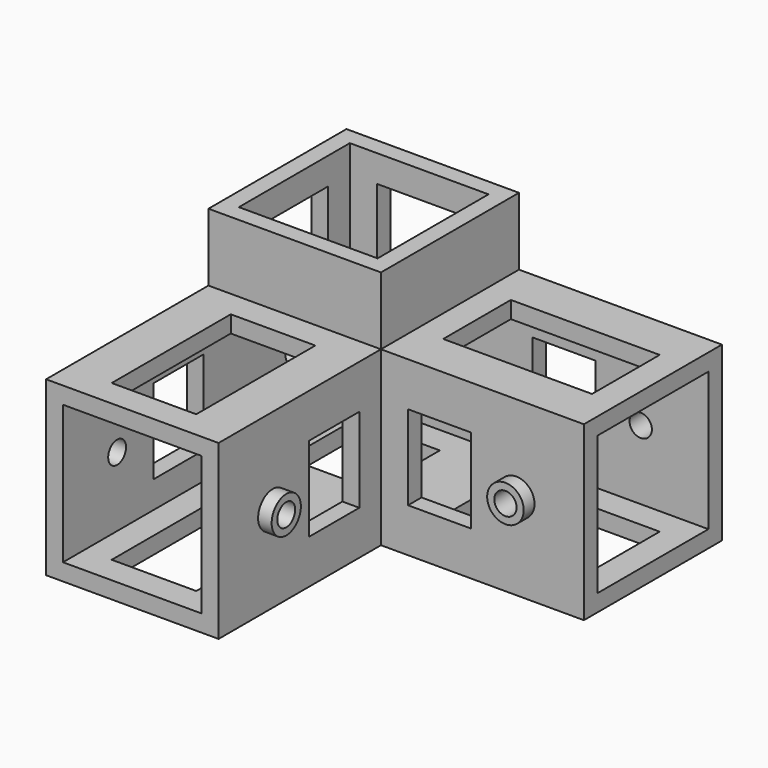
from build123d import *

# Parameters (mm, degrees)
F0_W      = 25.5
F0_H      = 25.5
F0_W_2    = 20.5
F0_H_2    = 20.5
F1_DEPTH  = 35.5
F2_W      = 25.5
F2_H      = 25.5
F3_DEPTH  = 30
F4_DEPTH  = 10
F5_W      = 20.5
F5_H      = 20.5
F6_DEPTH  = 32.5
F7_W      = 20.5
F7_H      = 20.5
F8_DEPTH  = 2.5
F9_W      = 25.5
F9_H      = 25.5
F10_DEPTH = 30
F11_W     = 20.5
F11_H     = 20.5
F12_DEPTH = 32.5
F13_R     = 2.7
F14_DEPTH = 2
F15_R     = 2.7
F16_DEPTH = 2
F17_R     = 1.65
F18_DEPTH = 30
F19_R     = 2.7
F20_DEPTH = 2
F21_R     = 2.7
F22_DEPTH = 2
F23_R     = 1.65
F24_DEPTH = 30
F25_R     = 2.7
F26_DEPTH = 2
F27_R     = 1.65
F28_DEPTH = 25
F29_R     = 2.7
F30_DEPTH = 2
F31_R     = 1.65
F32_DEPTH = 25
F33_W     = 22
F33_H     = 12.5
F33_W_2   = 12.5
F33_H_2   = 22
F34_DEPTH = 2.5
F35_W     = 9.3
F35_H     = 12.5
F36_DEPTH = 2.5
F37_W     = 9.3
F37_H     = 12.5
F37_W_2   = 12.5
F37_H_2   = 12.05
F38_DEPTH = 2.5
F39_W     = 9.3
F39_H     = 12.5
F39_W_2   = 12.5
F39_H_2   = 12.05
F40_DEPTH = 2.5
F41_W     = 22
F41_H     = 12.5
F41_W_2   = 12.5
F41_H_2   = 22
F42_DEPTH = 2.5
F43_W     = 9.3
F43_H     = 12.5
F44_DEPTH = 2.5


with BuildPart() as f1:
    # F0 (on Top) → F1 (new body)
    with BuildSketch(Plane.XY):
        with Locations((0, 10.25)):
            Rectangle(F0_W, F0_H)
        with Locations((0, 10.25)):
            Rectangle(F0_W_2, F0_H_2, mode=Mode.SUBTRACT)
    extrude(amount=F1_DEPTH)

    # F2 (on face) → F3 (join)
    with BuildSketch(Plane.XZ.offset(2.5)):
        with Locations((0, 12.75)):
            Rectangle(F2_W, F2_H)
    extrude(amount=F3_DEPTH)

    # F2 (on face) → F4 (join)
    with BuildSketch(Plane.XZ.offset(2.5)):
        with Locations((0, 12.75)):
            Rectangle(F2_W, F2_H)
    extrude(amount=F4_DEPTH)

    # F5 (on face) → F6 (cut)
    with BuildSketch(Plane.XZ.offset(32.5)):
        with Locations((0, 12.75)):
            Rectangle(F5_W, F5_H)
    extrude(amount=-F6_DEPTH, mode=Mode.SUBTRACT)

    # F7 (on face) → F8 (join)
    with BuildSketch(Plane(origin=(0, 0, 0), x_dir=(1, 0, 0), z_dir=(0, 0, -1))):
        with Locations((0, -10.25)):
            Rectangle(F7_W, F7_H)
    extrude(amount=-F8_DEPTH)

    # F9 (on face) → F10 (join)
    with BuildSketch(Plane.YZ.offset(12.75)):
        with Locations((10.25, 12.75)):
            Rectangle(F9_W, F9_H)
    extrude(amount=F10_DEPTH)

    # F11 (on face) → F12 (cut)
    with BuildSketch(Plane.YZ.offset(42.75)):
        with Locations((10.25, 12.75)):
            Rectangle(F11_W, F11_H)
    extrude(amount=-F12_DEPTH, mode=Mode.SUBTRACT)

    # F13 (on face) → F14 (join)
    with BuildSketch(Plane.YZ.offset(12.75)):
        with Locations((-22.5, 12.75)):
            Circle(F13_R)
    extrude(amount=F14_DEPTH)

    # F15 (on face) → F16 (join)
    with BuildSketch(Plane(origin=(-12.75, 0, 0), x_dir=(0, -1, 0), z_dir=(-1, 0, 0))):
        with Locations((22.5, 12.75)):
            Circle(F15_R)
    extrude(amount=F16_DEPTH)

    # F17 (on face) → F18 (cut)
    with BuildSketch(Plane.YZ.offset(14.75)):
        with Locations((-22.5, 12.75)):
            Circle(F17_R)
    extrude(amount=-F18_DEPTH, mode=Mode.SUBTRACT)

    # F19 (on face) → F20 (join)
    with BuildSketch(Plane.XZ.offset(2.5)):
        with Locations((32.75, 12.75)):
            Circle(F19_R)
    extrude(amount=F20_DEPTH)

    # F21 (on face) → F22 (join)
    with BuildSketch(Plane(origin=(0, 23, 0), x_dir=(-1, 0, 0), z_dir=(0, 1, 0))):
        with Locations((-32.75, 12.75)):
            Circle(F21_R)
    extrude(amount=F22_DEPTH)

    # F23 (on face) → F24 (cut)
    with BuildSketch(Plane(origin=(0, 25, 0), x_dir=(-1, 0, 0), z_dir=(0, 1, 0))):
        with Locations((-32.75, 12.75)):
            Circle(F23_R)
    extrude(amount=-F24_DEPTH, mode=Mode.SUBTRACT)

    # F25 (on face) → F26 (join)
    with BuildSketch(Plane(origin=(-12.75, 0, 0), x_dir=(0, -1, 0), z_dir=(-1, 0, 0))):
        with Locations((-10.25, 12.75)):
            Circle(F25_R)
    extrude(amount=F26_DEPTH)

    # F27 (on face) → F28 (cut)
    with BuildSketch(Plane(origin=(-14.75, 0, 0), x_dir=(0, -1, 0), z_dir=(-1, 0, 0))):
        with Locations((-10.25, 12.75)):
            Circle(F27_R)
    extrude(amount=-F28_DEPTH, mode=Mode.SUBTRACT)

    # F29 (on face) → F30 (join)
    with BuildSketch(Plane(origin=(0, 23, 0), x_dir=(-1, 0, 0), z_dir=(0, 1, 0))):
        with Locations((0, 12.75)):
            Circle(F29_R)
    extrude(amount=F30_DEPTH)

    # F31 (on face) → F32 (cut)
    with BuildSketch(Plane(origin=(0, 25, 0), x_dir=(-1, 0, 0), z_dir=(0, 1, 0))):
        with Locations((0, 12.75)):
            Circle(F31_R)
    extrude(amount=-F32_DEPTH, mode=Mode.SUBTRACT)

    # F33 (on face) → F34 (cut)
    with BuildSketch(Plane(origin=(0, 0, 0), x_dir=(1, 0, 0), z_dir=(0, 0, -1))):
        with Locations((27.75, -10.25)):
            Rectangle(F33_W, F33_H)
        with Locations((0, -10.25)):
            Rectangle(F33_W_2, F33_H)
        with Locations((0, 17.5)):
            Rectangle(F33_W_2, F33_H_2)
    extrude(amount=-F34_DEPTH, mode=Mode.SUBTRACT)

    # F35 (on face) → F36 (cut)
    with BuildSketch(Plane.YZ.offset(12.75)):
        with Locations((-11.15, 12.75)):
            Rectangle(F35_W, F35_H)
    extrude(amount=-F36_DEPTH, mode=Mode.SUBTRACT)

    # F37 (on face) → F38 (cut)
    with BuildSketch(Plane(origin=(-12.75, 0, 0), x_dir=(0, -1, 0), z_dir=(-1, 0, 0))):
        with Locations((11.15, 12.75)):
            Rectangle(F37_W, F37_H)
        with Locations((-10.25, 25.475)):
            Rectangle(F37_W_2, F37_H_2)
    extrude(amount=-F38_DEPTH, mode=Mode.SUBTRACT)

    # F39 (on face) → F40 (cut)
    with BuildSketch(Plane(origin=(0, 23, 0), x_dir=(-1, 0, 0), z_dir=(0, 1, 0))):
        with Locations((-21.4, 12.75)):
            Rectangle(F39_W, F39_H)
        with Locations((0, 25.475)):
            Rectangle(F39_W_2, F39_H_2)
    extrude(amount=-F40_DEPTH, mode=Mode.SUBTRACT)

    # F41 (on face) → F42 (cut)
    with BuildSketch(Plane.XY.offset(25.5)):
        with Locations((27.75, 10.25)):
            Rectangle(F41_W, F41_H)
        with Locations((0, -17.5)):
            Rectangle(F41_W_2, F41_H_2)
    extrude(amount=-F42_DEPTH, mode=Mode.SUBTRACT)

    # F43 (on face) → F44 (cut)
    with BuildSketch(Plane.XZ.offset(2.5)):
        with Locations((21.4, 12.75)):
            Rectangle(F43_W, F43_H)
    extrude(amount=-F44_DEPTH, mode=Mode.SUBTRACT)


solid = f1.part
